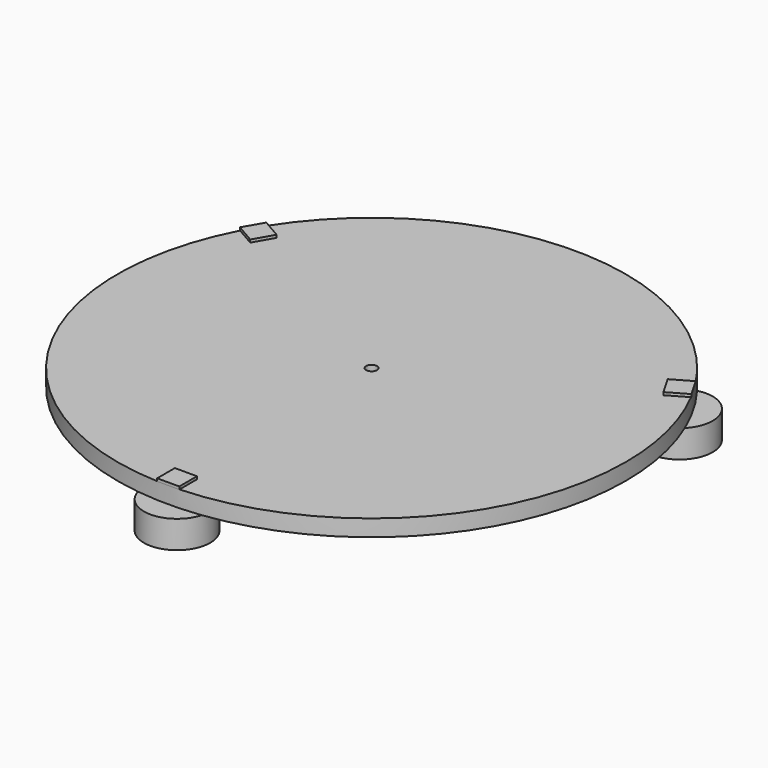
from build123d import *

# Parameters (mm, degrees)
SKETCH003_R   = 292.1
SKETCH003_R_2 = 6.35
PAD003_DEPTH  = 19.05
SKETCH004_R   = 38.1
PAD004_DEPTH  = 31.75
SKETCH005_W   = 25.4
SKETCH005_H   = 25.4
PAD005_DEPTH  = 3.175


with BuildPart() as part:
    # Sketch003 → Pad003 (new body)
    with BuildSketch(Plane.XY):
        Circle(SKETCH003_R)
        Circle(SKETCH003_R_2, mode=Mode.SUBTRACT)
    extrude(amount=PAD003_DEPTH)

    # Sketch004 (on Face3 of Pad003) → Pad004 (join)
    with BuildSketch(Plane(origin=(0, 0, 0), x_dir=(1, 0, 0), z_dir=(0, 0, -1))):
        with Locations((0, 279.4)):
            Circle(SKETCH004_R)
        with Locations((241.967498, -139.7)):
            Circle(SKETCH004_R)
        with Locations((-241.967498, -139.7)):
            Circle(SKETCH004_R)
    extrude(amount=PAD004_DEPTH)

    # Sketch005 (on Face6 of Pad004) → Pad005 (join)
    with BuildSketch(Plane.XY.offset(19.05)):
        Polygon((-237.318975, 122.351477), (-224.618975, 144.348523), (-246.61602, 157.048523), (-259.31602, 135.051477), align=None)
        Polygon((237.318975, 122.351477), (259.31602, 135.051477), (246.61602, 157.048523), (224.618975, 144.348523), align=None)
        with Locations((0, -279.4)):
            Rectangle(SKETCH005_W, SKETCH005_H)
    extrude(amount=PAD005_DEPTH)


solid = part.part
